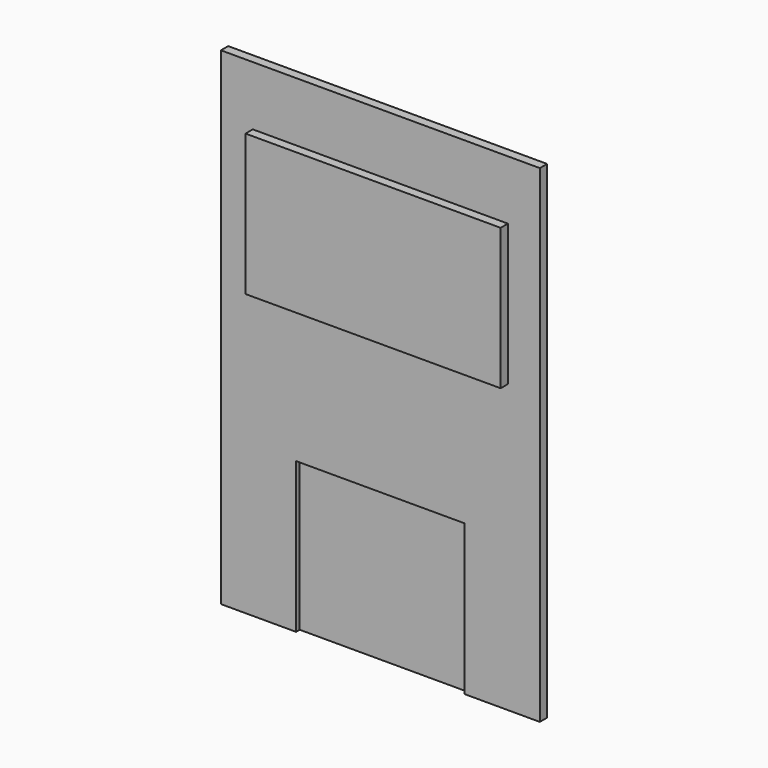
from build123d import *

# Parameters (mm, degrees)
F0_W     = 1778
F0_H     = 2717.8
F1_DEPTH = 50.8
F2_W     = 939.8
F2_H     = 838.2
F3_DEPTH = 25.4
F4_W     = 1422.4
F4_H     = 787.4
F5_DEPTH = 50.8


with BuildPart() as f1:
    # F0 (on Front) → F1 (new body)
    with BuildSketch(Plane.XZ):
        with Locations((0, -355.6)):
            Rectangle(F0_W, F0_H)
    extrude(amount=F1_DEPTH)

    # F2 (on face) → F3 (cut)
    with BuildSketch(Plane.XZ.offset(50.8)):
        with Locations((0, -1295.4)):
            Rectangle(F2_W, F2_H)
    extrude(amount=-F3_DEPTH, mode=Mode.SUBTRACT)

    # F4 (on face) → F5 (join)
    with BuildSketch(Plane.XZ.offset(50.8)):
        with Locations((0, 279.4)):
            Rectangle(F4_W, F4_H)
    extrude(amount=F5_DEPTH)


solid = f1.part
